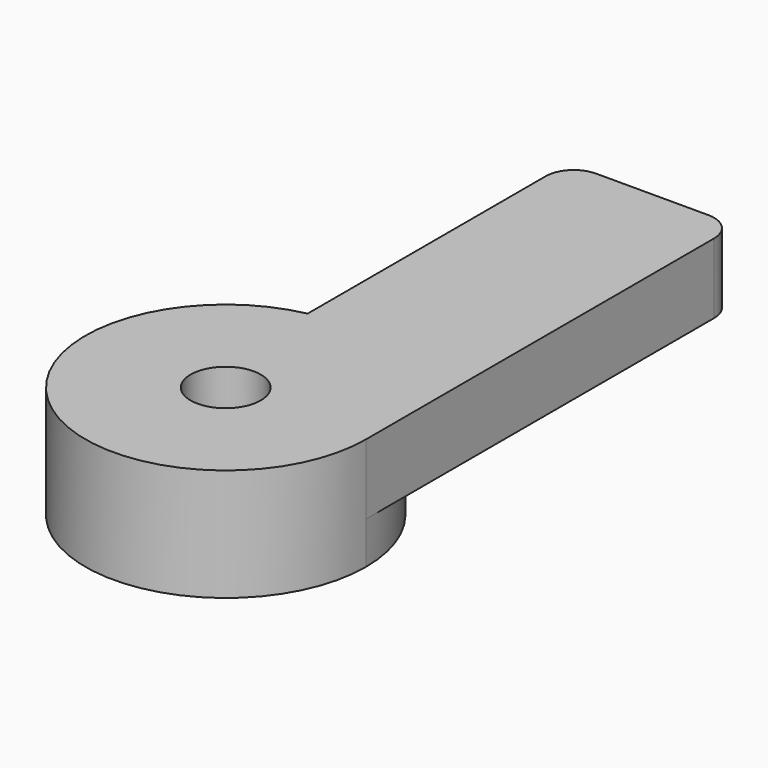
from build123d import *

# Parameters (mm, degrees)
F1_DEPTH = 25
F2_DEPTH = 40
F3_R     = 12.5
F4_DEPTH = 40.001
F5_R     = 25
F6_DEPTH = 15
F7_R     = 10
F9_DEPTH = 10
F10_R    = 10


with BuildPart() as f1:
    # F0 (on Top) → F1 (new body)
    with BuildSketch(Plane.XY):
        with BuildLine():
            ThreePointArc((-10, 48.989795), (31.622777, 38.729833), (50, 0))
            Line((50, 0), (50, 165))
            Line((50, 165), (-10, 165))
            Line((-10, 165), (-10, 48.989795))
        make_face()
    extrude(amount=-F1_DEPTH)

    # F0 (on Top) → F2 (join)
    with BuildSketch(Plane.XY):
        with BuildLine():
            Line((-10, 0), (50, 0))
            ThreePointArc((50, 0), (31.622777, 38.729833), (-10, 48.989795))
            Line((-10, 48.989795), (-10, 0))
        make_face()
        with BuildLine():
            ThreePointArc((-10, 48.989795), (-31.622777, -38.729833), (50, 0))
            Line((50, 0), (-10, 0))
            Line((-10, 0), (-10, 48.989795))
        make_face()
    extrude(amount=-F2_DEPTH)

    # F3 (on face) → F4 (cut, through all)
    with BuildSketch(Plane(origin=(0, 0, -40), x_dir=(1, 0, 0), z_dir=(0, 0, -1))):
        Circle(F3_R)
    extrude(amount=-F4_DEPTH, mode=Mode.SUBTRACT)

    # F5 (on face) → F6 (cut)
    with BuildSketch(Plane(origin=(0, 0, -40), x_dir=(1, 0, 0), z_dir=(0, 0, -1))):
        Circle(F5_R)
    extrude(amount=-F6_DEPTH, mode=Mode.SUBTRACT)

    # F7
    f7_edges = [f1.edges().sort_by_distance(p)[0] for p in [
        (-10, 165, -12.5),
        (50, 165, -12.5),
    ]]
    fillet(f7_edges, radius=F7_R)

    # F8 (on face) → F9 (cut)
    with BuildSketch(Plane(origin=(0, 0, -25), x_dir=(1, 0, 0), z_dir=(0, 0, -1))):
        with BuildLine():
            Line((0, -155), (40, -155))
            Line((40, -155), (40, -44.72136))
            ThreePointArc((40, -44.72136), (21.409325, -56.050342), (0, -60))
            Line((0, -60), (0, -155))
        make_face()
    extrude(amount=-F9_DEPTH, mode=Mode.SUBTRACT)

    # F10
    f10_edges = [f1.edges().sort_by_distance(p)[0] for p in [
        (0, 155, -20),
        (40, 155, -20),
    ]]
    fillet(f10_edges, radius=F10_R)


solid = f1.part
